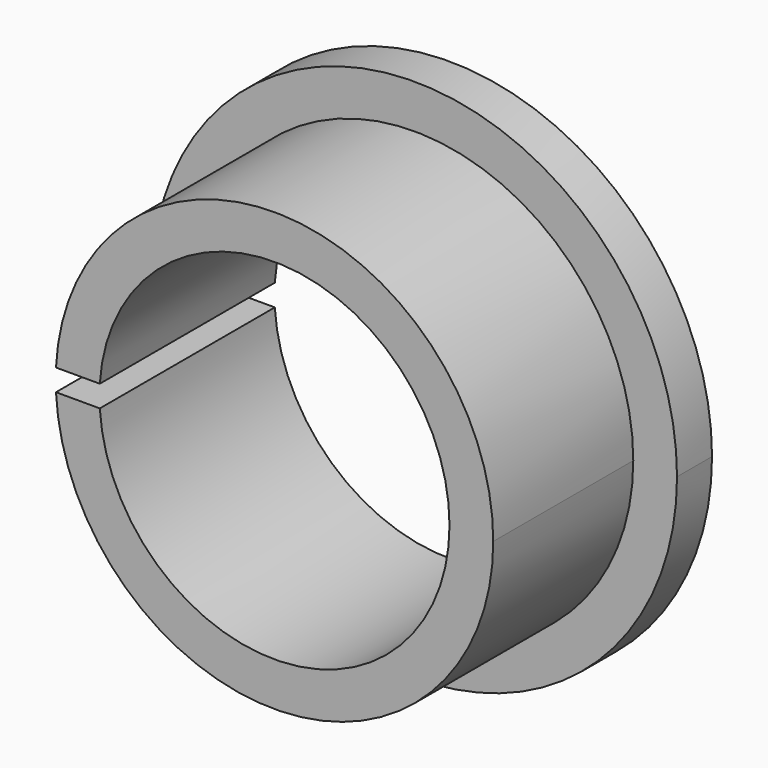
from build123d import *

# Parameters (mm, degrees)
F0_R     = 15.875
F0_R_2   = 12.7
F1_DEPTH = 15.875
F0_R_3   = 19.05
F2_DEPTH = 3.175
F4_DEPTH = 15.876


with BuildPart() as f1:
    # F0 (on Front) → F1 (new body)
    with BuildSketch(Plane.XZ):
        Circle(F0_R)
        Circle(F0_R_2, mode=Mode.SUBTRACT)
    extrude(amount=F1_DEPTH)

    # F0 (on Front) → F2 (join)
    with BuildSketch(Plane.XZ):
        Circle(F0_R_3)
        Circle(F0_R, mode=Mode.SUBTRACT)
    extrude(amount=F2_DEPTH)

    # F3 (on face) → F4 (cut, through all)
    with BuildSketch(Plane(origin=(0, 0, 0), x_dir=(-1, 0, 0), z_dir=(0, 1, 0))):
        with BuildLine():
            Line((19.03372, 0.7874), (12.675567, 0.7874))
            ThreePointArc((12.675567, 0.7874), (12.69389, 0.393889), (12.7, 0))
            ThreePointArc((12.7, 0), (12.69389, -0.393889), (12.675567, -0.7874))
            Line((12.675567, -0.7874), (19.03372, -0.7874))
            ThreePointArc((19.03372, -0.7874), (19.04593, -0.393784), (19.05, 0))
            ThreePointArc((19.05, 0), (19.04593, 0.393784), (19.03372, 0.7874))
        make_face()
    extrude(amount=-F4_DEPTH, mode=Mode.SUBTRACT)


solid = f1.part
